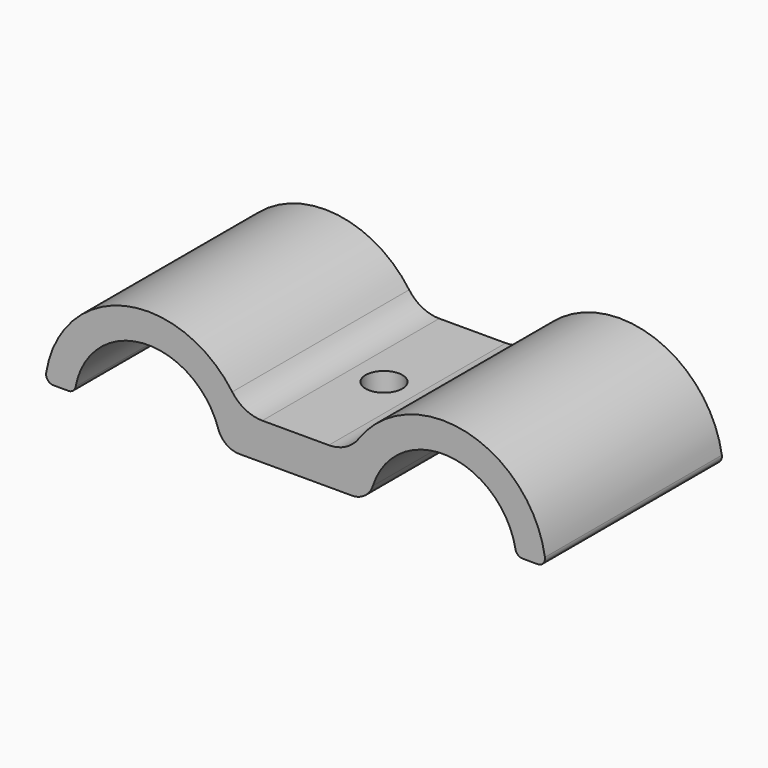
from build123d import *

# Parameters (mm, degrees)
F1_DEPTH = 38.1
F3_D     = 6.35


with BuildPart() as f1:
    # F0 (on Front) → F1 (new body)
    with BuildSketch(Plane.XZ):
        with BuildLine():
            Line((25.4, 7.62), (25.4, 1.27))
            Line((25.4, 1.27), (35.090968, 1.27))
            ThreePointArc((35.090968, 1.27), (37.332575, 1.999205), (38.716129, 3.907692))
            ThreePointArc((38.716129, 3.907692), (51.624485, 12.673209), (63.288319, 2.309091))
            ThreePointArc((63.288319, 2.309091), (63.724856, 1.563743), (64.53715, 1.27))
            Line((64.53715, 1.27), (67.113445, 1.27))
            ThreePointArc((67.113445, 1.27), (68.07808, 1.713937), (68.368326, 2.735385))
            ThreePointArc((68.368326, 2.735385), (54.879209, 17.305735), (36.302812, 10.293684))
            ThreePointArc((36.302812, 10.293684), (34.038824, 8.327877), (31.125245, 7.62))
            Line((31.125245, 7.62), (25.4, 7.62))
        make_face()
        with BuildLine():
            ThreePointArc((-12.488319, 2.309091), (-0.824485, 12.673209), (12.083871, 3.907692))
            ThreePointArc((12.083871, 3.907692), (13.467425, 1.999205), (15.709032, 1.27))
            Line((15.709032, 1.27), (25.4, 1.27))
            Line((25.4, 1.27), (25.4, 7.62))
            Line((25.4, 7.62), (19.674755, 7.62))
            ThreePointArc((19.674755, 7.62), (16.761176, 8.327877), (14.497188, 10.293684))
            ThreePointArc((14.497188, 10.293684), (-4.079209, 17.305735), (-17.568326, 2.735385))
            ThreePointArc((-17.568326, 2.735385), (-17.27808, 1.713937), (-16.313445, 1.27))
            Line((-16.313445, 1.27), (-13.73715, 1.27))
            ThreePointArc((-13.73715, 1.27), (-12.924856, 1.563743), (-12.488319, 2.309091))
        make_face()
    extrude(amount=F1_DEPTH)

    # F3 (through all)
    with Locations(Plane.XY.offset(7.62)):
        with Locations((25.4, -19.05)):
            Hole(F3_D / 2)


solid = f1.part
